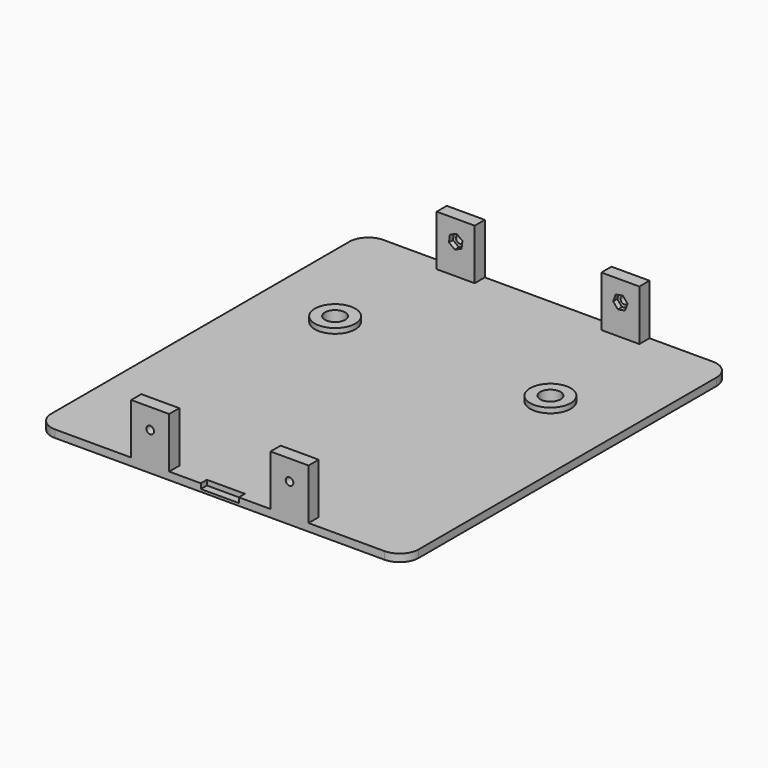
from build123d import *

# Parameters (mm, degrees)
PAD_DEPTH       = 3
SKETCH001_W     = 15
SKETCH001_H     = 3
POCKET_DEPTH    = 2
SKETCH002_R     = 8
PAD001_DEPTH    = 2
SKETCH003_R     = 4
POCKET001_DEPTH = 5
SKETCH004_W     = 15
SKETCH004_H     = 5
PAD002_DEPTH    = 20
POCKET002_DEPTH = 2
SKETCH006_R     = 1.5
POCKET003_DEPTH = 5
POCKET004_DEPTH = 2
SKETCH008_R     = 1.5
POCKET005_DEPTH = 5


with BuildPart() as part:
    # Sketch → Pad (new body)
    with BuildSketch(Plane.XY):
        with BuildLine():
            Line((7.5, 162), (137.5, 162))
            ThreePointArc((145, 154.5), (142.803301, 159.803301), (137.5, 162))
            Line((145, 154.5), (145, 7.5))
            ThreePointArc((137.5, 0), (142.803301, 2.196699), (145, 7.5))
            Line((137.5, 0), (7.5, 0))
            ThreePointArc((0, 7.5), (2.196699, 2.196699), (7.5, 0))
            Line((0, 7.5), (0, 154.5))
            ThreePointArc((7.5, 162), (2.196699, 159.803301), (0, 154.5))
        make_face()
    extrude(amount=PAD_DEPTH)

    # Sketch001 (on Face10 of Pad) → Pocket (cut)
    with BuildSketch(Plane.XY.offset(3)):
        with Locations((72.5, 1.5)):
            Rectangle(SKETCH001_W, SKETCH001_H)
    extrude(amount=-POCKET_DEPTH, mode=Mode.SUBTRACT)

    # Sketch002 (on Face5 of Pocket) → Pad001 (join)
    with BuildSketch(Plane.XY.offset(3)):
        with Locations((30, 110)):
            Circle(SKETCH002_R)
        with Locations((115, 110)):
            Circle(SKETCH002_R)
    extrude(amount=PAD001_DEPTH)

    # Sketch003 (on Face18 of Pad001) → Pocket001 (cut)
    with BuildSketch(Plane.XY.offset(5)):
        with Locations((30, 110)):
            Circle(SKETCH003_R)
        with Locations((115, 110)):
            Circle(SKETCH003_R)
    extrude(amount=-POCKET001_DEPTH, mode=Mode.SUBTRACT)

    # Sketch004 (on Face5 of Pocket001) → Pad002 (join)
    with BuildSketch(Plane.XY.offset(3)):
        with Locations((45, 2.5)):
            Rectangle(SKETCH004_W, SKETCH004_H)
        with Locations((100, 2.5)):
            Rectangle(SKETCH004_W, SKETCH004_H)
        with Locations((40, 159.5)):
            Rectangle(SKETCH004_W, SKETCH004_H)
        with Locations((105, 159.5)):
            Rectangle(SKETCH004_W, SKETCH004_H)
    extrude(amount=PAD002_DEPTH)

    # Sketch005 (on Face22 of Pad002) → Pocket002 (cut)
    with BuildSketch(Plane(origin=(0, 5, 0), x_dir=(-1, 0, 0), z_dir=(0, 1, 0))):
        Polygon((-98.798643, 12.375105), (-97.126096, 14.727958), (-98.327452, 17.352853), (-101.201357, 17.624895), (-102.873904, 15.272042), (-101.672548, 12.647147), align=None)
        Polygon((-43.642398, 12.452403), (-42.114915, 14.901919), (-43.472517, 17.449516), (-46.357602, 17.547597), (-47.885085, 15.098081), (-46.527483, 12.550484), align=None)
    extrude(amount=-POCKET002_DEPTH, mode=Mode.SUBTRACT)

    # Sketch006 (on Face22 of Pocket002) → Pocket003 (cut)
    with BuildSketch(Plane(origin=(0, 5, 0), x_dir=(-1, 0, 0), z_dir=(0, 1, 0))):
        with Locations((-100, 15)):
            Circle(SKETCH006_R)
        with Locations((-45, 15)):
            Circle(SKETCH006_R)
    extrude(amount=-POCKET003_DEPTH, mode=Mode.SUBTRACT)

    # Sketch007 (on Face25 of Pocket003) → Pocket004 (cut)
    with BuildSketch(Plane.XZ.offset(-157)):
        Polygon((42.303268, 13.259802), (42.65869, 16.124589), (40.355422, 17.864788), (37.696732, 16.740198), (37.34131, 13.875411), (39.644578, 12.135212), align=None)
        Polygon((106.849162, 12.783261), (107.844334, 15.493051), (105.995172, 17.709791), (103.150838, 17.216739), (102.155666, 14.506949), (104.004828, 12.290209), align=None)
    extrude(amount=-POCKET004_DEPTH, mode=Mode.SUBTRACT)

    # Sketch008 (on Face25 of Pocket004) → Pocket005 (cut)
    with BuildSketch(Plane.XZ.offset(-157)):
        with Locations((40, 15)):
            Circle(SKETCH008_R)
        with Locations((105, 15)):
            Circle(SKETCH008_R)
    extrude(amount=-POCKET005_DEPTH, mode=Mode.SUBTRACT)


solid = part.part
